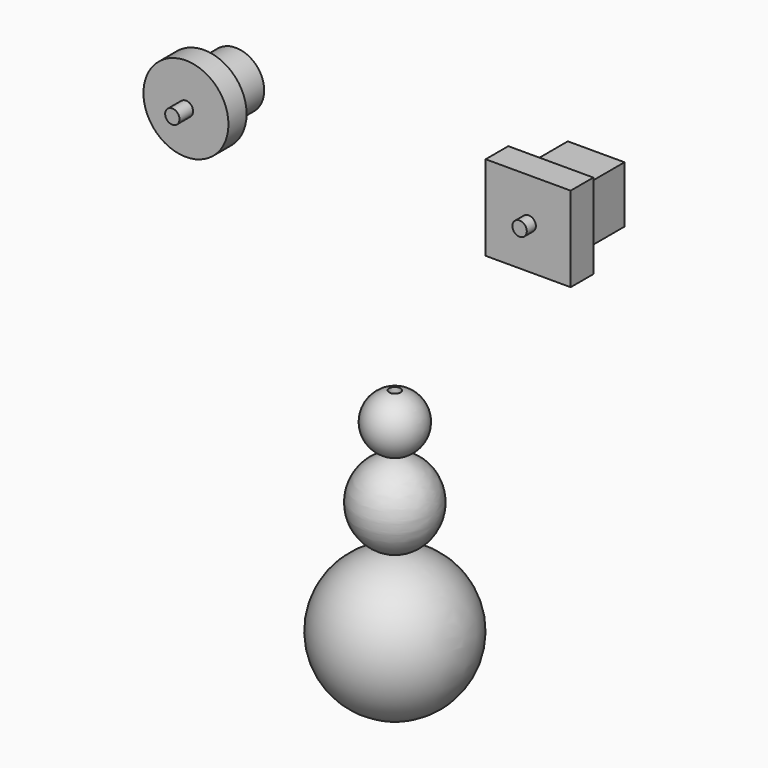
from build123d import *

# Parameters (mm, degrees)
F2_R      = 1.27
F3_DEPTH  = 12.7
F4_R      = 9.525
F5_DEPTH  = 5.08
F6_R      = 1.60655
F7_DEPTH  = 3.81
F8_R      = 6.35
F9_DEPTH  = 8.89
F10_W     = 19.05
F10_H     = 19.05
F11_DEPTH = 6.35
F12_W     = 12.7
F12_H     = 12.7
F13_DEPTH = 12.7
F14_R     = 1.6129
F15_DEPTH = 2.54


with BuildPart() as f1:
    # F0 (on Front) → F1 (revolve)
    with BuildSketch(Plane.XZ):
        with BuildLine():
            ThreePointArc((0, -73.55264256), (15.875, -57.67764256), (0, -41.80264256))
            Line((0, -41.80264256), (0, -73.55264256))
        make_face()
    revolve(axis=Axis((0, 0, -57.67764256), (0, 0, -1)))


with BuildPart() as f1b:
    # F0 (on Front) → F1, piece 2 (revolve)
    with BuildSketch(Plane.XZ):
        with BuildLine():
            Line((0, -22.75264256), (0, -41.80264256))
            ThreePointArc((0, -41.80264256), (8.8886446253, -32.27764256), (0, -22.75264256))
        make_face()
    revolve(axis=Axis((0, 0, -57.67764256), (0, 0, -1)))


with BuildPart() as f1c:
    # F0 (on Front) → F1, piece 3 (revolve)
    with BuildSketch(Plane.XZ):
        with BuildLine():
            Line((0, -10.05264256), (0, -22.75264256))
            ThreePointArc((0, -22.75264256), (6.35, -16.40264256), (0, -10.05264256))
        make_face()
    revolve(axis=Axis((0, 0, -57.67764256), (0, 0, -1)))

    # F2 (on Top) → F3 (cut)
    with BuildSketch(Plane.XY):
        Circle(F2_R)
    extrude(amount=-F3_DEPTH, mode=Mode.SUBTRACT)


with BuildPart() as f5:
    # F4 (on Front) → F5 (new body)
    with BuildSketch(Plane.XZ):
        with Locations((-42.7391566336, 33.5293710232)):
            Circle(F4_R)
    extrude(amount=F5_DEPTH)

    # F6 (on face) → F7 (join)
    with BuildSketch(Plane.XZ.offset(5.08)):
        with Locations((-42.7391566336, 33.5293710232)):
            Circle(F6_R)
    extrude(amount=F7_DEPTH)

    # F8 (on face) → F9 (join)
    with BuildSketch(Plane(origin=(0, 0, 0), x_dir=(-1, 0, 0), z_dir=(0, 1, 0))):
        with Locations((42.7391566336, 33.5293710232)):
            Circle(F8_R)
    extrude(amount=F9_DEPTH)


with BuildPart() as f11:
    # F10 (on Front) → F11 (new body)
    with BuildSketch(Plane.XZ):
        with Locations((34.9409907371, 36.7226478398)):
            Rectangle(F10_W, F10_H)
    extrude(amount=F11_DEPTH)

    # F12 (on face) → F13 (join)
    with BuildSketch(Plane(origin=(0, 0, 0), x_dir=(-1, 0, 0), z_dir=(0, 1, 0))):
        with Locations((-34.9409907371, 36.7226478398)):
            Rectangle(F12_W, F12_H)
    extrude(amount=F13_DEPTH)

    # F14 (on face) → F15 (join)
    with BuildSketch(Plane.XZ.offset(6.35)):
        with Locations((35.0572876632, 36.7226478398)):
            Circle(F14_R)
    extrude(amount=F15_DEPTH)


solid = Compound([f1.part, f1b.part, f1c.part, f5.part, f11.part])
